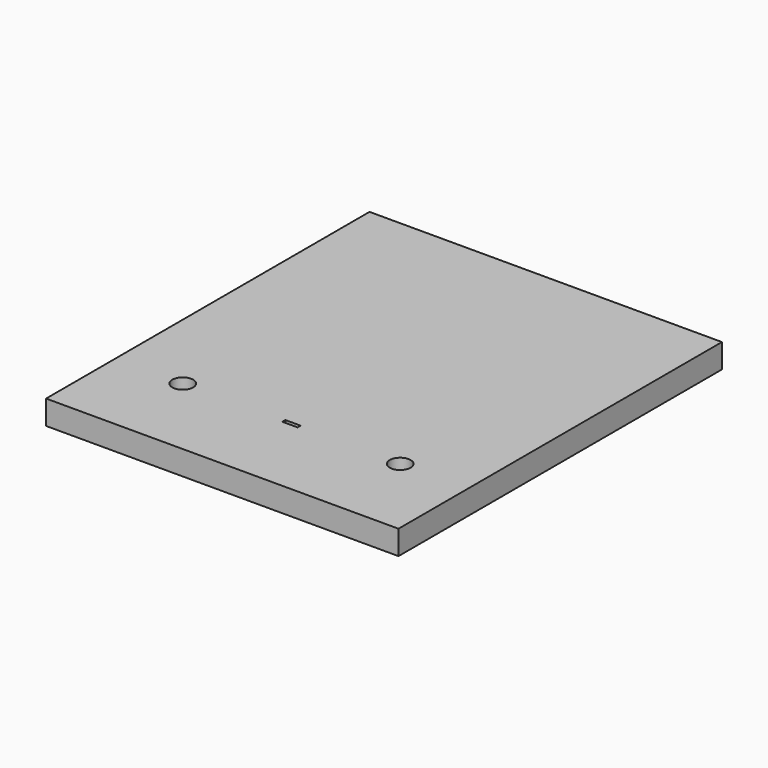
from build123d import *

# Parameters (mm, degrees)
F0_W     = 92.7
F0_H     = 106.35
F0_R     = 2.75
F0_W_2   = 4
F0_H_2   = 1
F1_DEPTH = 6.35


with BuildPart() as f1:
    # F0 (on Top) → F1 (new body)
    with BuildSketch(Plane.XY):
        Rectangle(F0_W, F0_H)
        with Locations((-28.6, -30.425)):
            Circle(F0_R, mode=Mode.SUBTRACT)
        with Locations((0, -30.425)):
            Rectangle(F0_W_2, F0_H_2, mode=Mode.SUBTRACT)
        with Locations((28.6, -30.425)):
            Circle(F0_R, mode=Mode.SUBTRACT)
    extrude(amount=F1_DEPTH)


solid = f1.part
